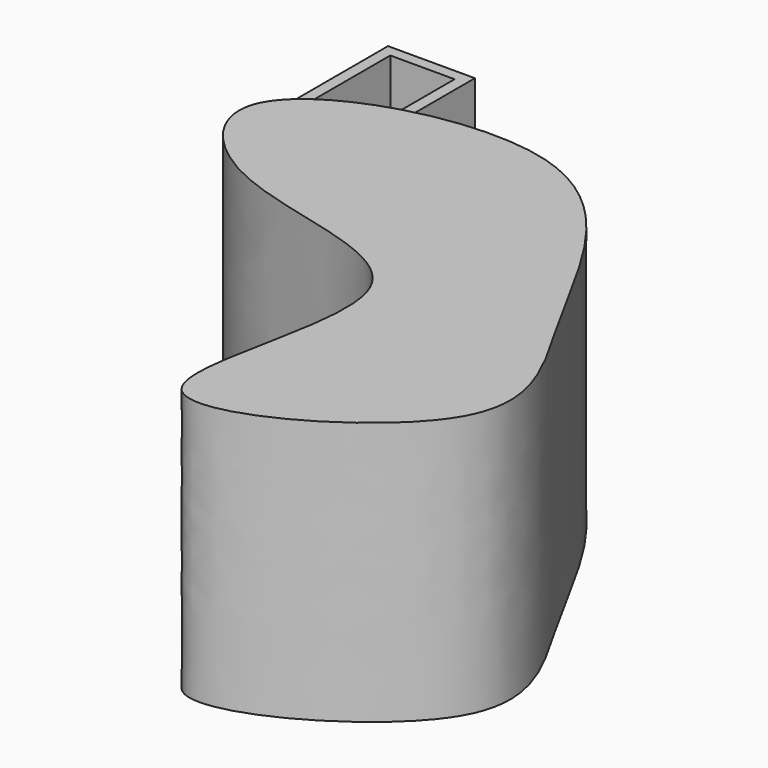
from build123d import *

# Parameters (mm, degrees)
F1_DEPTH = 35
F2_W     = 11.547960341
F2_H     = 16.6949927807
F3_DEPTH = 25
F4_T     = -1.5


with BuildPart() as f1:
    # F0 (on Top) → F1 (new body)
    with BuildSketch(Plane.XY):
        with BuildLine():
            add(Edge.make_bspline(
                [(-48.2974164188, 29.4827595353), (-44.9840185427, 36.3201334645), (-10.1272999758, 46.6128101549), (5.1568192166, 10.4224569946), (22.1602880366, -12.8043614788), (-26.7303655574, -39.3875741633), (-2.2369766419, 11.9744139842), (-39.8980088642, 11.147117278), (-50.6789905907, 24.5682537129), (-48.2974164188, 29.4827595353)],
                knots=[0, 0, 0, 0, 0.1550103813, 0.3174626507, 0.4494664358, 0.5966918724, 0.7444066747, 0.8885830394, 1, 1, 1, 1], degree=3))
        make_face()
    extrude(amount=F1_DEPTH)


with BuildPart() as f3:
    # F2 (on Top) → F3 (new body)
    with BuildSketch(Plane.XY):
        with Locations((-52.1186962724, 54.3680712581)):
            Rectangle(F2_W, F2_H)
    extrude(amount=F3_DEPTH)

    # F4
    f4_openings = [f3.faces().sort_by_distance(p)[0] for p in [
        (-52.118696, 54.368071, 25),
    ]]
    offset(amount=F4_T, openings=f4_openings)


solid = Compound([f1.part, f3.part])
